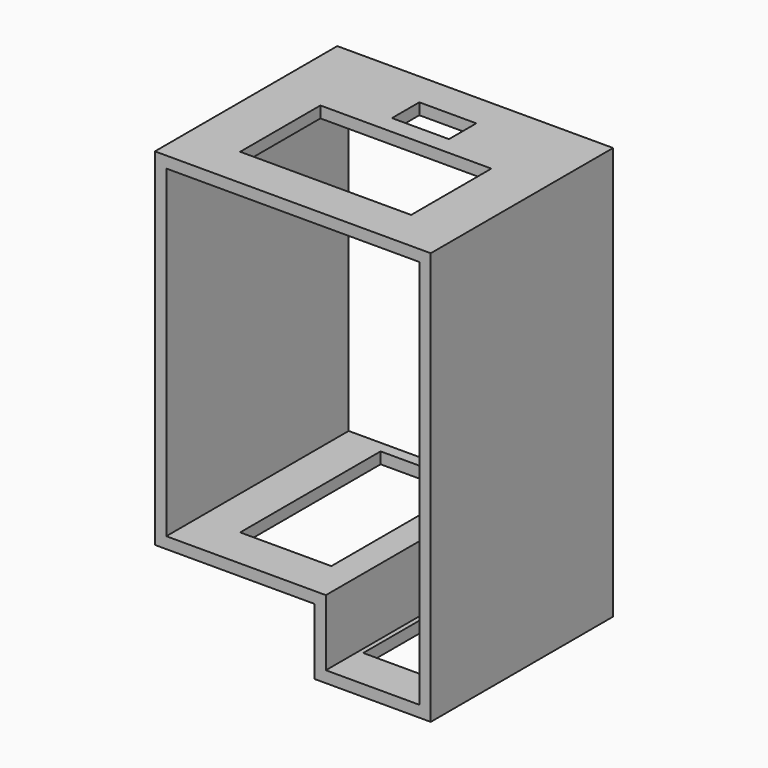
from build123d import *

# Parameters (mm, degrees)
F0_W      = 5
F0_H      = 142
F0_H_2    = 24
F1_DEPTH  = 100
F2_W      = 75
F2_H      = 44
F3_DEPTH  = 25
F4_W      = 34
F4_H      = 77
F5_DEPTH  = 25
F7_W      = 40
F7_H      = 77
F8_DEPTH  = 25
F9_W      = 25
F9_H      = 15
F10_DEPTH = 25


with BuildPart() as f1:
    # F0 (on Front) → F1 (new body)
    with BuildSketch(Plane.XZ):
        with Locations((-58, 0)):
            Rectangle(F0_W, F0_H)
        Polygon((-60.5, 71), (-55.5, 71), (55.5, 71), (60.5, 71), (60.5, 76), (-60.5, 76), align=None)
        Polygon((14.5, -71), (-55.5, -71), (-60.5, -71), (-60.5, -76), (9.5, -76), (14.5, -76), align=None)
        Polygon((60.5, 71), (55.5, 71), (55.5, -100), (55.5, -105), (60.5, -105), align=None)
        Polygon((55.5, -105), (55.5, -100), (14.5, -100), (9.5, -100), (9.5, -105), align=None)
        with Locations((12, -88)):
            Rectangle(F0_W, F0_H_2)
    extrude(amount=F1_DEPTH)

    # F2 (on face) → F3 (cut)
    with BuildSketch(Plane.XY.offset(76)):
        with Locations((0, -60)):
            Rectangle(F2_W, F2_H)
    extrude(amount=-F3_DEPTH, mode=Mode.SUBTRACT)

    # F4 (on face) → F5 (cut)
    with BuildSketch(Plane(origin=(0, 0, -105), x_dir=(1, 0, 0), z_dir=(0, 0, -1))):
        with Locations((33.5, 43.5)):
            Rectangle(F4_W, F4_H)
    extrude(amount=-F5_DEPTH, mode=Mode.SUBTRACT)

    # F7 (on face) → F8 (cut)
    with BuildSketch(Plane(origin=(0, 0, -76), x_dir=(1, 0, 0), z_dir=(0, 0, -1))):
        with Locations((-17.5, 43.5)):
            Rectangle(F7_W, F7_H)
    extrude(amount=-F8_DEPTH, mode=Mode.SUBTRACT)

    # F9 (on face) → F10 (cut)
    with BuildSketch(Plane.XY.offset(76)):
        with Locations((0, -22.5)):
            Rectangle(F9_W, F9_H)
    extrude(amount=-F10_DEPTH, mode=Mode.SUBTRACT)


solid = f1.part
